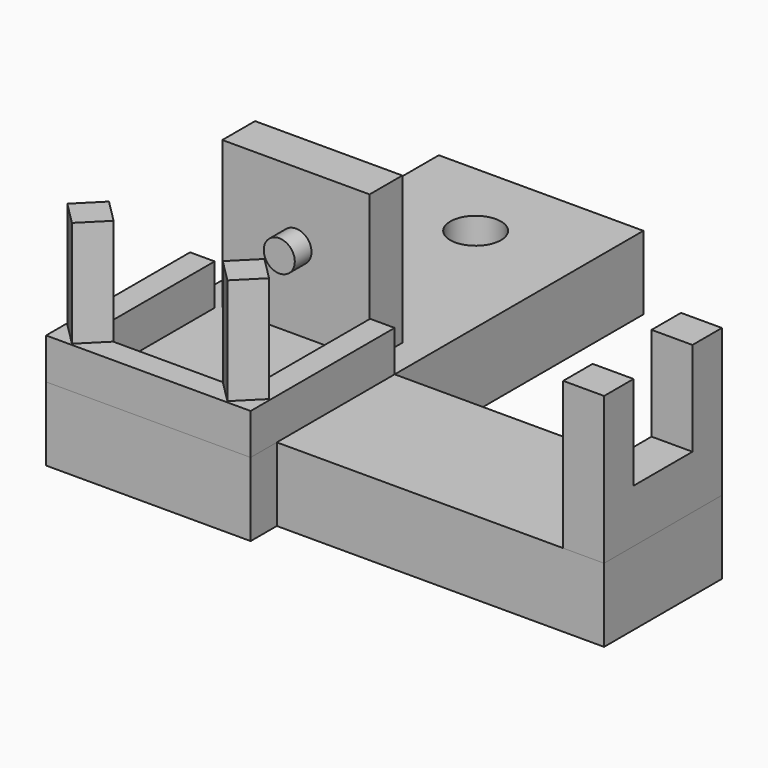
from build123d import *

# Parameters (mm, degrees)
BOX002_W               = 19
BOX002_H               = 22
BOX002_DEPTH           = 10
BOX001_W               = 25
BOX001_H               = 22
BOX001_DEPTH           = 5
CYLINDER_R             = 3.1
CYLINDER_DEPTH         = 15
BOX_W                  = 25
BOX_H                  = 60
BOX_DEPTH              = 9
BOX003_W               = 4
BOX003_H               = 4
BOX003_DEPTH           = 13
BOX003_PLACEMENT_ANGLE = 45
BOX004_W               = 4
BOX004_H               = 4
BOX004_DEPTH           = 13
BOX004_PLACEMENT_ANGLE = 45
CYLINDER001_R          = 1.9
CYLINDER001_DEPTH      = 10
BOX006_W               = 7.8
BOX006_H               = 3
BOX006_DEPTH           = 7
BOX005_W               = 18
BOX005_H               = 5
BOX005_DEPTH           = 18
CYLINDER002_R          = 1.9
CYLINDER002_DEPTH      = 10
BOX007_W               = 40
BOX007_H               = 18
BOX007_DEPTH           = 9
BOX009_W               = 10
BOX009_H               = 9
BOX009_DEPTH           = 15
BOX008_W               = 5
BOX008_H               = 18
BOX008_DEPTH           = 18


with BuildPart() as cube002:
    # Box002 → Box002 (new body)
    with BuildSketch(Plane(origin=(3, 3, 8), x_dir=(1, 0, 0), z_dir=(0, 0, 1))):
        with Locations((9.5, 11)):
            Rectangle(BOX002_W, BOX002_H)
    extrude(amount=BOX002_DEPTH)


with BuildPart() as cut:
    # Box001 → Box001 (new body)
    with BuildSketch(Plane.XY.offset(9)):
        with Locations((12.5, 11)):
            Rectangle(BOX001_W, BOX001_H)
    extrude(amount=BOX001_DEPTH)

    # Cut: cut Cube002
    add(cube002.part, mode=Mode.SUBTRACT)


with BuildPart() as cylinder:
    # Cylinder → Cylinder (new body)
    with BuildSketch(Plane(origin=(12.5, 50, -3), x_dir=(1, 0, 0), z_dir=(0, 0, 1))):
        Circle(CYLINDER_R)
    extrude(amount=CYLINDER_DEPTH)


with BuildPart() as cut001:
    # Box → Box (new body)
    with BuildSketch(Plane.XY):
        with Locations((12.5, 30)):
            Rectangle(BOX_W, BOX_H)
    extrude(amount=BOX_DEPTH)

    # Cut001: cut Cylinder
    add(cylinder.part, mode=Mode.SUBTRACT)


with BuildPart() as cube003:
    # Box003 → Box003 (new body)
    with BuildSketch(Plane.XY):
        with Locations((2, 2)):
            Rectangle(BOX003_W, BOX003_H)
    extrude(amount=BOX003_DEPTH)


with BuildPart() as cube003_1:
    # Box003 placement: moved
    add(cube003.part.moved(Location((3, 0.2, 14))).rotate(Axis((3, 0.2, 14), (0, 0, 1)), BOX003_PLACEMENT_ANGLE))


with BuildPart() as cube004:
    # Box004 → Box004 (new body)
    with BuildSketch(Plane.XY):
        with Locations((2, 2)):
            Rectangle(BOX004_W, BOX004_H)
    extrude(amount=BOX004_DEPTH)


with BuildPart() as cube004_1:
    # Box004 placement: moved
    add(cube004.part.moved(Location((22, 0.2, 14))).rotate(Axis((22, 0.2, 14), (0, 0, 1)), BOX004_PLACEMENT_ANGLE))


with BuildPart() as cylinder001:
    # Cylinder001 → Cylinder001 (new body)
    with BuildSketch(Plane(origin=(12.5, 30, 18.5), x_dir=(1, 0, 0), z_dir=(0, -1, 0))):
        Circle(CYLINDER001_R)
    extrude(amount=CYLINDER001_DEPTH)


with BuildPart() as cube006:
    # Box006 → Box006 (new body)
    with BuildSketch(Plane(origin=(8.5, 24.55, 15), x_dir=(1, 0, 0), z_dir=(0, 0, 1))):
        with Locations((3.9, 1.5)):
            Rectangle(BOX006_W, BOX006_H)
    extrude(amount=BOX006_DEPTH)


with BuildPart() as cut003:
    # Box005 → Box005 (new body)
    with BuildSketch(Plane(origin=(3.5, 22.55, 9), x_dir=(1, 0, 0), z_dir=(0, 0, 1))):
        with Locations((9, 2.5)):
            Rectangle(BOX005_W, BOX005_H)
    extrude(amount=BOX005_DEPTH)

    # Cut002: cut Cube006
    add(cube006.part, mode=Mode.SUBTRACT)

    # Cut003: cut Cylinder001
    add(cylinder001.part, mode=Mode.SUBTRACT)


with BuildPart() as cylinder002:
    # Cylinder002 → Cylinder002 (new body)
    with BuildSketch(Plane(origin=(12.5, 30, 18.5), x_dir=(1, 0, 0), z_dir=(0, -1, 0))):
        Circle(CYLINDER002_R)
    extrude(amount=CYLINDER002_DEPTH)


with BuildPart() as cube007:
    # Box007 → Box007 (new body)
    with BuildSketch(Plane(origin=(25, 4, 0), x_dir=(1, 0, 0), z_dir=(0, 0, 1))):
        with Locations((20, 9)):
            Rectangle(BOX007_W, BOX007_H)
    extrude(amount=BOX007_DEPTH)


with BuildPart() as cube009:
    # Box009 → Box009 (new body)
    with BuildSketch(Plane(origin=(58, 4.5, 15.51), x_dir=(1, 0, 0), z_dir=(0, 0, 1))):
        with Locations((5, 4.5)):
            Rectangle(BOX009_W, BOX009_H)
    extrude(amount=BOX009_DEPTH)


with BuildPart() as cut004:
    # Box008 → Box008 (new body)
    with BuildSketch(Plane(origin=(60, 0, 9), x_dir=(1, 0, 0), z_dir=(0, 0, 1))):
        with Locations((2.5, 9)):
            Rectangle(BOX008_W, BOX008_H)
    extrude(amount=BOX008_DEPTH)

    # Cut004: cut Cube009
    add(cube009.part, mode=Mode.SUBTRACT)


with BuildPart() as cut004_1:
    # Cut004 placement: moved
    add(cut004.part.moved(Location((0, 4, 0))))


solid = Compound([cut.part, cut001.part, cube003_1.part, cube004_1.part, cut003.part, cylinder002.part, cube007.part, cut004_1.part])
